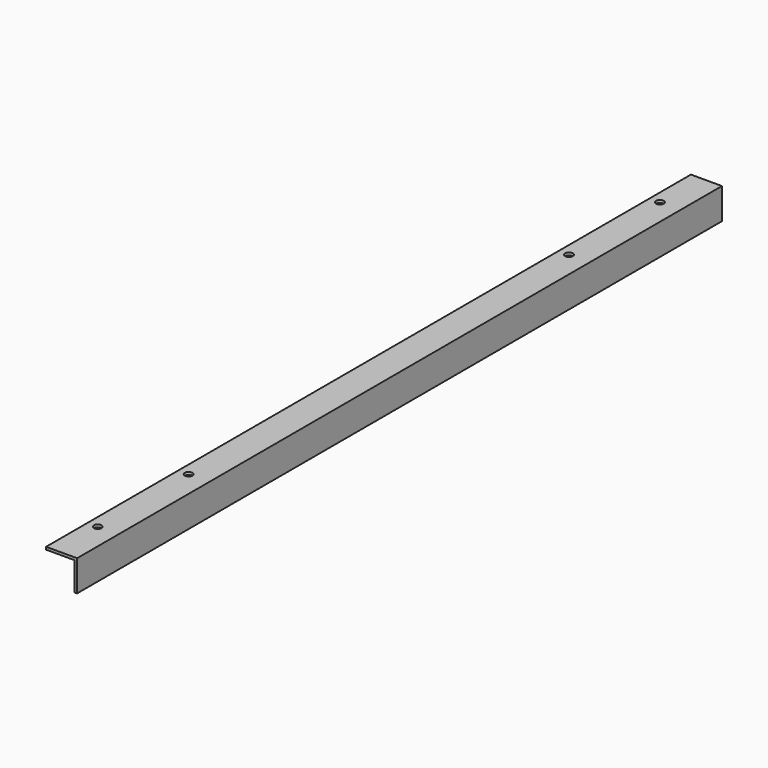
from build123d import *

# Parameters (mm, degrees)
F1_DEPTH = 990.6
F2_R     = 4.7625
F3_DEPTH = 38.101


with BuildPart() as f1:
    # F0 (on Front) → F1 (new body)
    with BuildSketch(Plane.XZ):
        Polygon((38.1, 0), (0, 0), (0, -3.175), (34.925, -3.175), (34.925, -38.1), (38.1, -38.1), align=None)
    extrude(amount=F1_DEPTH)

    # F2 (on face) → F3 (cut, through all)
    with BuildSketch(Plane.XY):
        with Locations((12.7, -927.1)):
            Circle(F2_R)
        with Locations((12.7, -787.4)):
            Circle(F2_R)
        with Locations((12.7, -203.2)):
            Circle(F2_R)
        with Locations((12.7, -63.5)):
            Circle(F2_R)
    extrude(amount=-F3_DEPTH, mode=Mode.SUBTRACT)


solid = f1.part
